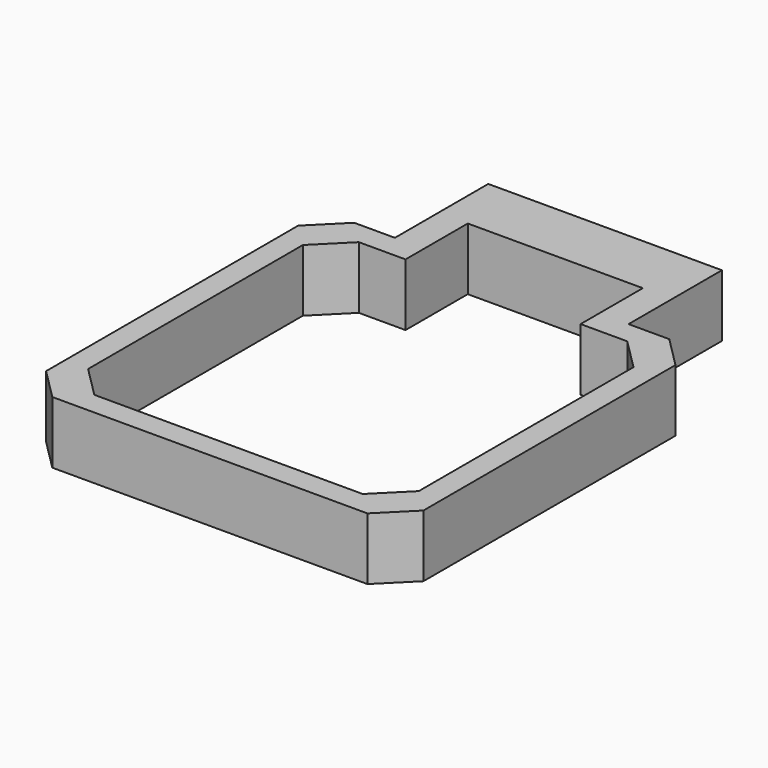
from build123d import *

# Parameters (mm, degrees)
F1_DEPTH = 8
F2_SIZE  = 4
F3_W     = 11.25
F3_H     = 8
F4_DEPTH = 8


with BuildPart() as f1:
    # F0 (on Top) → F1 (new body)
    with BuildSketch(Plane.XY):
        Polygon((21.25, 21.25), (21.25, -21.25), (-21.25, -21.25), (-21.25, 21.25), (-11.25, 21.25), (-11.25, 24.250001), (-24.250001, 24.250001), (-24.250001, -24.250001), (24.250001, -24.250001), (24.250001, 24.250001), (11.25, 24.250001), (11.25, 21.25), align=None)
    extrude(amount=F1_DEPTH)

    # F2
    f2_edges = [f1.edges().sort_by_distance(p)[0] for p in [
        (-21.25, 21.25, 4),
        (-21.25, -21.25, 4),
        (21.25, -21.25, 4),
        (-24.250001, -24.250001, 4),
        (-24.250001, 24.250001, 4),
        (24.250001, 24.250001, 4),
        (21.25, 21.25, 4),
        (24.250001, -24.250001, 4),
    ]]
    chamfer(f2_edges, length=F2_SIZE)

    # F3 (on face) → F4 (join)
    with BuildSketch(Plane(origin=(0, 0, 0), x_dir=(1, 0, 0), z_dir=(0, 0, -1))):
        Polygon((-11.25, -31.250001), (-11.25, -24.250001), (-15.016655, -24.250001), (-15.016655, -39.250001), (-11.25, -39.250001), align=None)
        with Locations((-5.625, -35.250001)):
            Rectangle(F3_W, F3_H)
        with Locations((5.625, -35.250001)):
            Rectangle(F3_W, F3_H)
        Polygon((11.25, -24.250001), (11.25, -31.250001), (11.25, -39.250001), (15.016655, -39.250001), (15.016655, -24.250001), align=None)
    extrude(amount=-F4_DEPTH)


solid = f1.part
